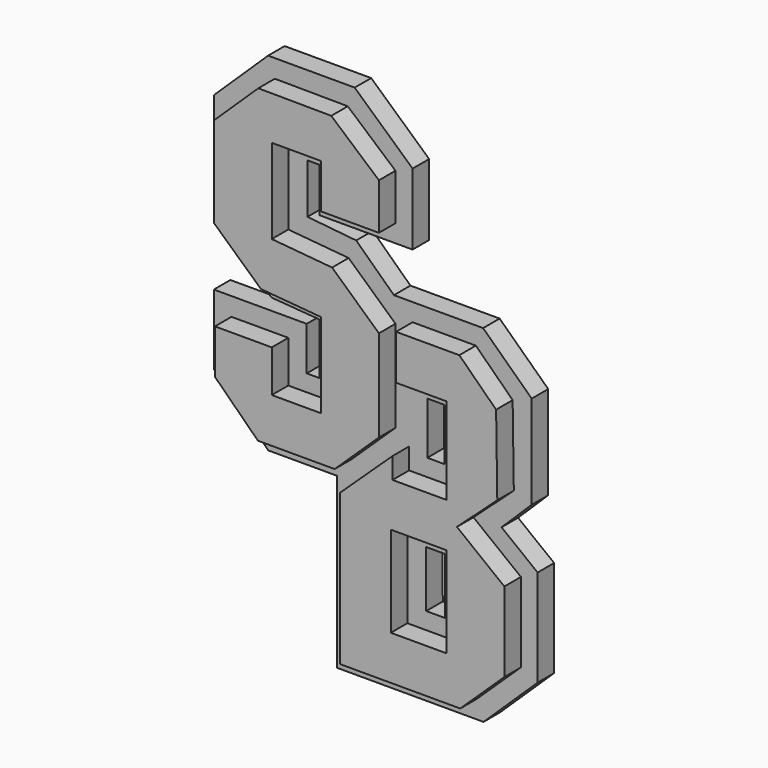
from build123d import *

# Parameters (mm, degrees)
F1_DEPTH = 2
F2_DEPTH = 1


with BuildPart() as f1:
    # F0 (on Front) → F1 (new body)
    with BuildSketch(Plane.XZ):
        Polygon((-6.117652, 5.050753), (-9.646244, 5.076819), (-11.778664, 3.0235), (-11.778664, -1.370539), (-9.52022, -3.430721), (-6.611727, -3.677757), (-6.611727, -7.77537), (-8.995513, -7.77537), (-8.995513, -5.745122), (-11.744258, -5.745122), (-11.744258, -7.894021), (-9.663685, -9.937631), (-5.951959, -9.937631), (-3.811935, -7.894021), (-3.811935, -3.459109), (-6.077381, -1.396149), (-8.995513, -1.132481), (-8.995513, 2.967111), (-6.623297, 2.967111), (-6.623297, 0.819248), (-3.811935, 0.819248), (-3.811935, 3.056561), align=None)
        Polygon((0.076645, -3.126698), (-2.983604, -3.126698), (-2.983604, -5.294547), (-0.551261, -5.294547), (-0.551261, -9.491613), (-3.153238, -9.491613), (-3.153238, -8.471345), (-5.685775, -10.854829), (-5.703424, -18.159136), (0.120658, -18.159136), (2.255432, -16.122171), (2.255432, -12.268207), (-0.038249, -10.476676), (1.913641, -8.705081), (1.856365, -4.867615), align=None)
        Polygon((-3.236875, -11.634663), (-3.197325, -11.634663), (-3.188428, -11.634663), (-0.554047, -11.634663), (-0.554047, -16.024745), (-3.236875, -16.024745), align=None, mode=Mode.SUBTRACT)
    extrude(amount=F1_DEPTH)


with BuildPart() as f2:
    # F0 (on Front) → F2 (new body)
    with BuildSketch(Plane.XZ):
        Polygon((-5.78489, 5.954892), (-9.973321, 5.953955), (-12.597663, 3.417479), (-12.597663, -1.740527), (-9.80701, -4.296013), (-7.484483, -4.470576), (-7.484483, -6.968836), (-8.104104, -6.968836), (-8.104104, -4.859487), (-12.597663, -4.859487), (-12.597663, -8.25231), (-9.965823, -10.854829), (-6.631813, -10.854829), (-5.685775, -10.854829), (-3.153238, -8.471345), (-2.983604, -8.311696), (-2.983604, -5.294547), (-2.983604, -3.126698), (-3.887176, -2.266324), (-5.710893, -0.529796), (-8.067321, -0.290748), (-8.067321, 2.114216), (-7.484483, 2.114216), (-7.484483, -0.033646), (-2.983604, -0.033646), (-2.983604, 3.417479), align=None)
        Polygon((-11.778664, 3.0235), (-9.646244, 5.076819), (-6.117652, 5.050753), (-3.811935, 3.056561), (-3.811935, 0.819248), (-6.623297, 0.819248), (-6.623297, 2.967111), (-8.995513, 2.967111), (-8.995513, -1.132481), (-6.077381, -1.396149), (-3.811935, -3.459109), (-3.811935, -7.894021), (-5.951959, -9.937631), (-9.663685, -9.937631), (-11.744258, -7.894021), (-11.744258, -5.745122), (-8.995513, -5.745122), (-8.995513, -7.77537), (-6.611727, -7.77537), (-6.611727, -3.677757), (-9.52022, -3.430721), (-11.778664, -1.370539), align=None, mode=Mode.SUBTRACT)
        Polygon((-0.551261, -5.294547), (-2.983604, -5.294547), (-2.983604, -8.311696), (-3.153238, -8.471345), (-3.153238, -9.491613), (-0.551261, -9.491613), align=None)
        Polygon((-2.272869, -8.667158), (-2.272869, -6.141966), (-1.438961, -6.142495), (-1.438961, -8.667158), align=None, mode=Mode.SUBTRACT)
        Polygon((-3.188428, -11.634663), (-3.197325, -11.634663), (-3.236875, -11.634663), (-3.236875, -16.024745), (-0.554047, -16.024745), (-0.554047, -11.634663), align=None)
        Polygon((-2.323147, -15.210209), (-2.335513, -12.483668), (-1.424239, -12.483668), (-1.424239, -15.210209), align=None, mode=Mode.SUBTRACT)
        Polygon((0.42769, -2.266324), (-3.887176, -2.266324), (-2.983604, -3.126698), (0.076645, -3.126698), (1.856365, -4.867615), (1.913641, -8.705081), (-0.038249, -10.476676), (2.255432, -12.268207), (2.255432, -16.122171), (0.120658, -18.159136), (-5.703424, -18.159136), (-5.685775, -10.854829), (-6.631813, -10.854829), (-6.631813, -19.030758), (0.447521, -19.030758), (3.065368, -16.505952), (3.065368, -11.8168), (1.318564, -10.458906), (2.778358, -9.026719), (2.778358, -4.504611), align=None)
    extrude(amount=F2_DEPTH)


solid = Compound([f1.part, f2.part])
